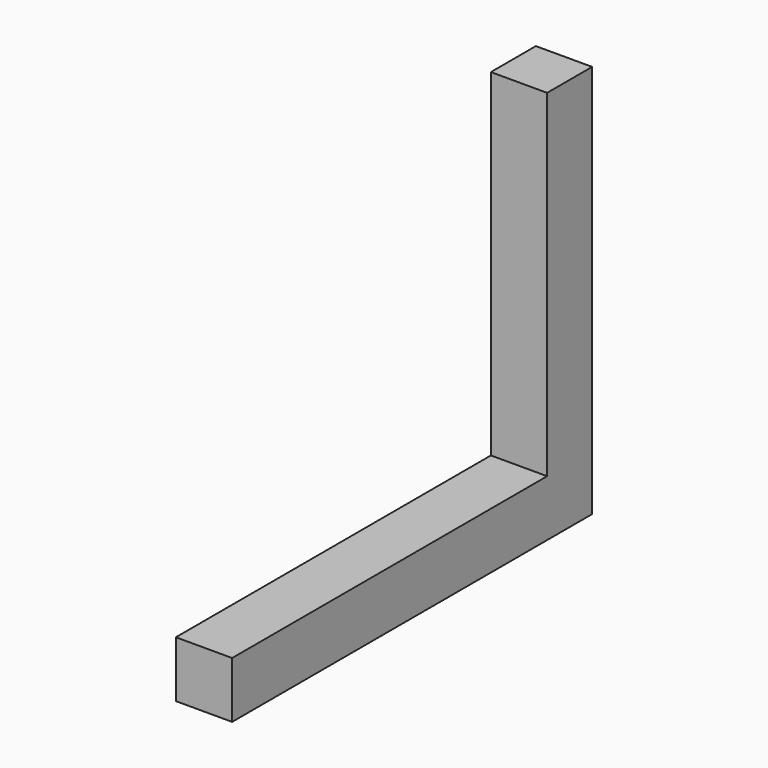
from build123d import *

# Parameters (mm, degrees)
F0_W     = 50
F0_H     = 50
F1_DEPTH = 350
F2_W     = 50
F2_H     = 50
F3_DEPTH = 350


with BuildPart() as f1:
    # F0 (on Front) → F1 (new body)
    with BuildSketch(Plane.XZ):
        with Locations((25, 25)):
            Rectangle(F0_W, F0_H)
    extrude(amount=F1_DEPTH)

    # F2 (on Top) → F3 (join)
    with BuildSketch(Plane.XY):
        with Locations((25, 25)):
            Rectangle(F2_W, F2_H)
    extrude(amount=F3_DEPTH)


solid = f1.part
